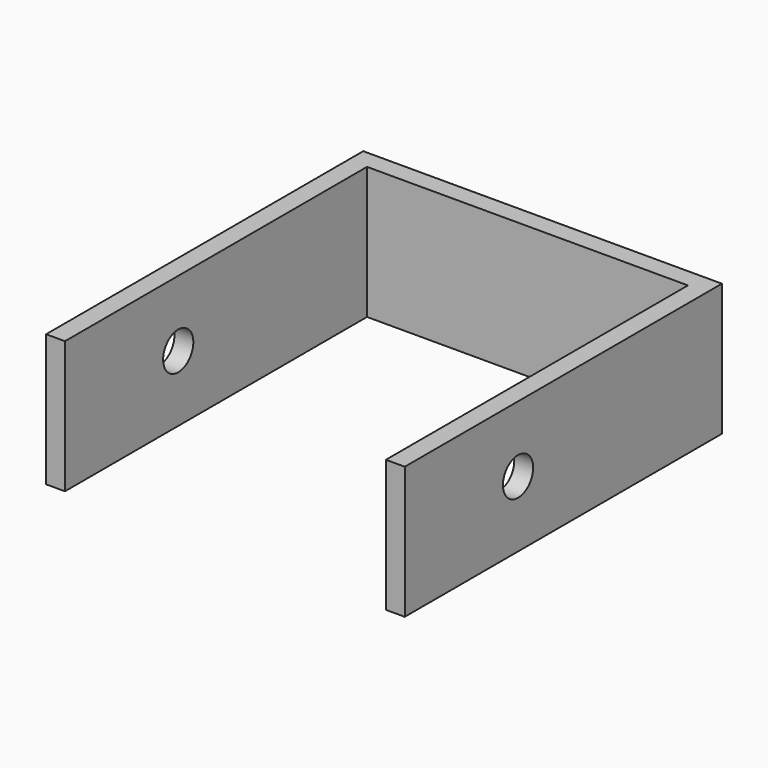
from build123d import *

# Parameters (mm, degrees)
PAD_DEPTH    = 14
SKETCH001_R  = 2
POCKET_DEPTH = 38.001


with BuildPart() as part:
    # Sketch → Pad (new body)
    with BuildSketch(Plane.XY):
        Polygon((-17, -40), (-17, 0), (17, 0), (17, -40), (19, -40), (19, 2), (-19, 2), (-19, -40), align=None)
    extrude(amount=PAD_DEPTH)

    # Sketch001 (on Face5 of Pad) → Pocket (cut, through all)
    with BuildSketch(Plane.YZ.offset(19)):
        with Locations((-25, 7)):
            Circle(SKETCH001_R)
    extrude(amount=-POCKET_DEPTH, mode=Mode.SUBTRACT)


solid = part.part
